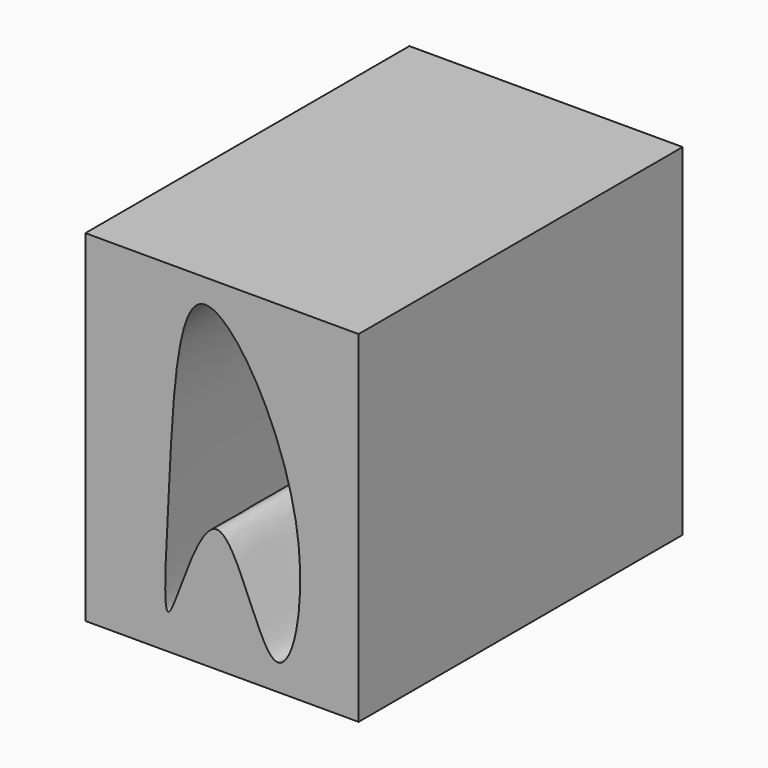
from build123d import *

# Parameters (mm, degrees)
F0_W     = 67.4656573683
F0_H     = 84.3013450503
F1_DEPTH = 100


with BuildPart() as f1:
    # F0 (on Front) → F1 (new body)
    with BuildSketch(Plane.XZ):
        with Locations((-27.8307478875, 0)):
            Rectangle(F0_W, F0_H)
        with BuildLine():
            add(Edge.make_bspline(
                [(-40.9705821726, -7.664419477), (-41.7377009658, -22.6657565654), (-43.5160956684, -49.0583842812), (-28.7411644845, 7.765089669), (-14.405165886, -53.9525302952), (-1.8984685561, -1.8791473226), (-38.3610637232, 58.5167113027), (-39.953933904, 12.2165735514), (-40.9705821726, -7.664419477)],
                knots=[0, 0, 0, 0, 0.1469911459, 0.2904873317, 0.4431459339, 0.6039296896, 0.8051953682, 1, 1, 1, 1], degree=3))
        make_face(mode=Mode.SUBTRACT)
    extrude(amount=F1_DEPTH)


solid = f1.part
